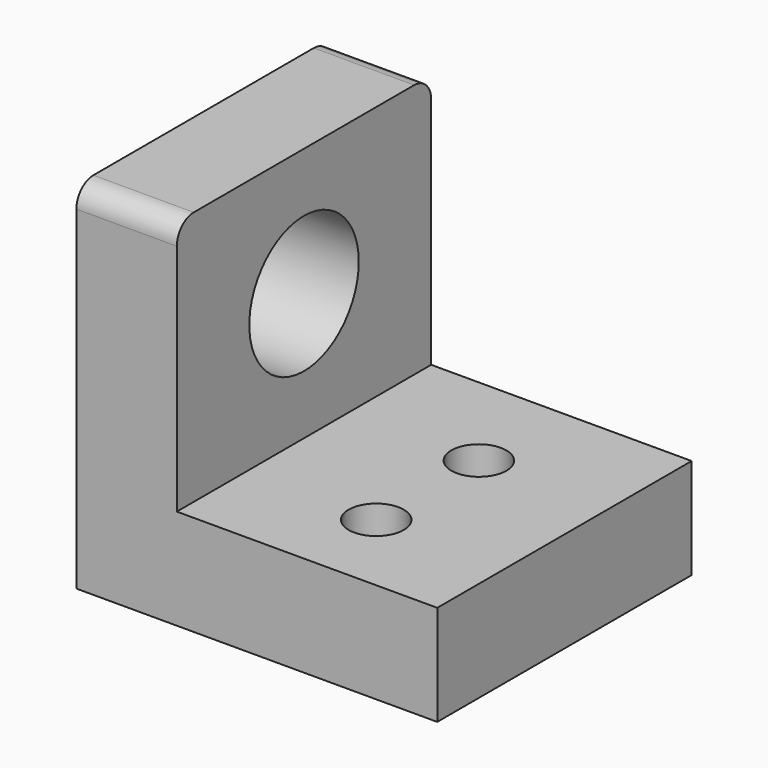
from build123d import *

# Parameters (mm, degrees)
F0_W     = 23.6952770501
F0_H     = 60.1157741621
F1_DEPTH = 75
F2_R     = 16.1345340931
F3_DEPTH = 23.6962770501
F4_R     = 6.5
F5_DEPTH = 23.6962658743
F6_R     = 5


with BuildPart() as f1:
    # F0 (on Front) → F1 (new body)
    with BuildSketch(Plane.XZ):
        Polygon((-42.5637289882, -11.8476329371), (42.5637289882, -11.8476329371), (42.5637289882, 11.8476329371), (-18.868451938, 11.8476329371), (-42.5637289882, 11.8476329371), align=None)
        with Locations((-30.7160904631, 41.9055200182)):
            Rectangle(F0_W, F0_H)
    extrude(amount=-F1_DEPTH)

    # F2 (on face) → F3 (cut, through all)
    with BuildSketch(Plane.YZ.offset(-18.868451938)):
        with Locations((37.5, 41.9055200182)):
            Circle(F2_R)
    extrude(amount=-F3_DEPTH, mode=Mode.SUBTRACT)

    # F4 (on face) → F5 (cut, through all)
    with BuildSketch(Plane.XY.offset(11.8476329371)):
        with Locations((11.8476385251, 20.3867554665)):
            Circle(F4_R)
        with Locations((11.8476385251, 50.6640449166)):
            Circle(F4_R)
    extrude(amount=-F5_DEPTH, mode=Mode.SUBTRACT)

    # F6
    f6_edges = [f1.edges().sort_by_distance(p)[0] for p in [
        (-30.71609, 0, 71.963407),
        (-30.71609, 75, 71.963407),
    ]]
    fillet(f6_edges, radius=F6_R)


solid = f1.part
